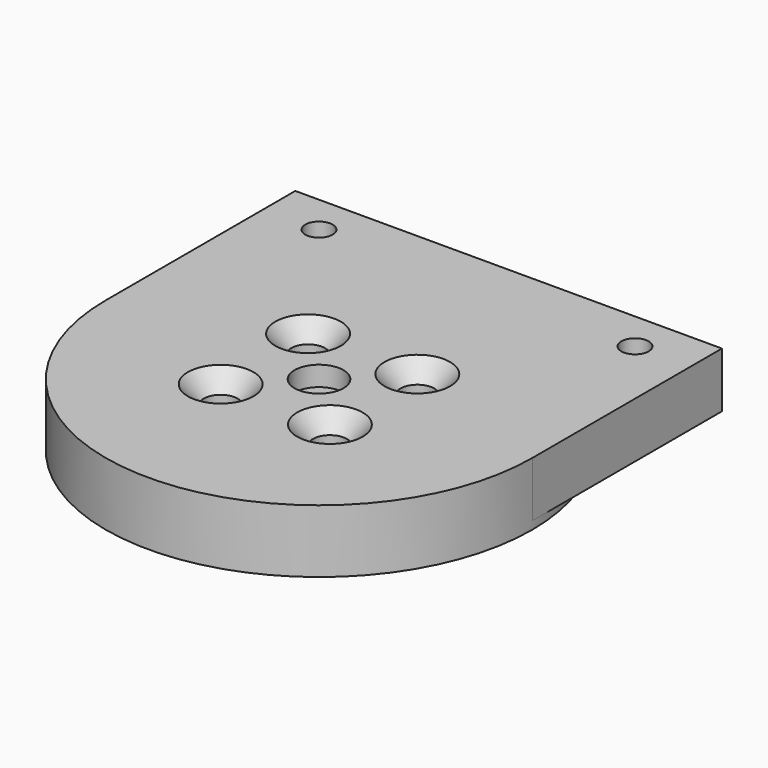
from build123d import *

# Parameters (mm, degrees)
SKETCH008_R      = 27
SKETCH008_R_2    = 3.1
PAD007_DEPTH     = 8
HOLE_D           = 4.3
HOLE_CSINK_D     = 8.298
HOLE_CSINK_ANGLE = 82
SKETCH075_R      = 4
PAD048_DEPTH     = 1
PAD054_DEPTH     = 7
SKETCH089_R      = 1.7272
POCKET028_DEPTH  = 8.001


with BuildPart() as part:
    # Sketch008 → Pad007 (new body)
    with BuildSketch(Plane.XY):
        Circle(SKETCH008_R)
        Circle(SKETCH008_R_2, mode=Mode.SUBTRACT)
    extrude(amount=PAD007_DEPTH)

    # Hole (through all)
    with Locations(Plane.XY.offset(8)):
        with Locations((-6.914797, 6.914797), (6.914797, 6.914797), (6.914797, -6.914797), (-6.914797, -6.914797)):
            CounterSinkHole(HOLE_D / 2, HOLE_CSINK_D / 2, counter_sink_angle=HOLE_CSINK_ANGLE)

    # Sketch075 → Pad048 (join)
    with BuildSketch(Plane.XY.offset(4.5)):
        Circle(SKETCH075_R)
    extrude(amount=PAD048_DEPTH)

    # Sketch088 → Pad054 (join)
    with BuildSketch(Plane.XY.offset(1)):
        with BuildLine():
            Line((-27, 0), (-27, 30))
            Line((-27, 30), (27, 30))
            Line((27, 30), (27, 0))
            Line((27, 0), (26.5, 0))
            ThreePointArc((26.5, 0), (0, 26.5), (-26.5, 0))
            Line((-26.5, 0), (-27, 0))
        make_face()
    extrude(amount=PAD054_DEPTH)

    # Sketch089 → Pocket028 (cut, through all)
    with BuildSketch(Plane.XY):
        with Locations((-20, 25)):
            Circle(SKETCH089_R)
        with Locations((20, 25)):
            Circle(SKETCH089_R)
    extrude(amount=POCKET028_DEPTH, mode=Mode.SUBTRACT)


solid = part.part
